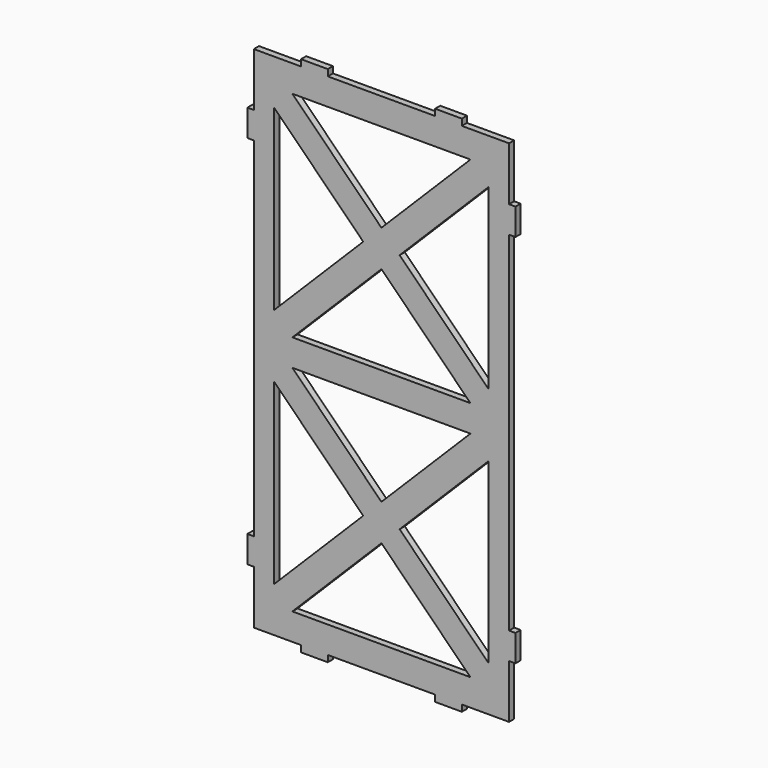
from build123d import *

# Parameters (mm, degrees)
F0_W     = 1.524
F0_H     = 6.35
F0_W_2   = 6.35
F0_H_2   = 1.524
F1_DEPTH = 1.524


with BuildPart() as f1:
    # F0 (on Front) → F1 (new body)
    with BuildSketch(Plane.XZ):
        Polygon((30.226, 19.05), (30.226, 25.4), (25.4, 25.4), (25.4, 21.0894770619), (25.4, -21.0894770619), (25.4, -25.4), (21.0894770619, -25.4), (-21.0894770619, -25.4), (-25.4, -25.4), (-25.4, -21.0894770619), (-25.4, 21.0894770619), (-25.4, 25.4), (-30.226, 25.4), (-30.226, 19.05), (-30.226, 12.7), (-30.226, -12.7), (-30.226, -19.05), (-30.226, -31.75), (-19.05, -31.75), (-12.7, -31.75), (12.7, -31.75), (19.05, -31.75), (30.226, -31.75), (30.226, -19.05), (30.226, -12.7), (30.226, 12.7), align=None)
        with Locations((-30.988, -15.875)):
            Rectangle(F0_W, F0_H)
        with Locations((-15.875, -32.512)):
            Rectangle(F0_W_2, F0_H_2)
        with Locations((15.875, -32.512)):
            Rectangle(F0_W_2, F0_H_2)
        Polygon((25.4, -25.4), (25.4, -21.0894770619), (4.3105229381, 0), (0, -4.3105229381), (21.0894770619, -25.4), align=None)
        Polygon((4.3105229381, 0), (0, 4.3105229381), (-4.3105229381, 0), (0, -4.3105229381), align=None)
        Polygon((25.4, 21.0894770619), (25.4, 25.4), (21.0894770619, 25.4), (0, 4.3105229381), (4.3105229381, 0), align=None)
        Polygon((-4.3105229381, 0), (0, 4.3105229381), (-21.0894770619, 25.4), (-25.4, 25.4), (-25.4, 21.0894770619), align=None)
        Polygon((0, -4.3105229381), (-4.3105229381, 0), (-25.4, -21.0894770619), (-25.4, -25.4), (-21.0894770619, -25.4), align=None)
        Polygon((-19.05, 31.75), (-21.0894770619, 31.75), (-25.4, 31.75), (-30.226, 31.75), (-30.226, 25.4), (-25.4, 25.4), (-21.0894770619, 25.4), (-19.05, 25.4), (-19.05, 26.924), (-12.7, 26.924), (-12.7, 25.4), (0, 25.4), (0, 31.75), (-12.7, 31.75), (-12.7, 30.226), (-19.05, 30.226), align=None)
        with Locations((-15.875, 26.162)):
            Rectangle(F0_W_2, F0_H_2)
        Polygon((30.226, 25.4), (30.226, 31.75), (25.4, 31.75), (21.0894770619, 31.75), (19.05, 31.75), (19.05, 30.226), (12.7, 30.226), (12.7, 31.75), (0, 31.75), (0, 25.4), (12.7, 25.4), (12.7, 26.924), (19.05, 26.924), (19.05, 25.4), (21.0894770619, 25.4), (25.4, 25.4), align=None)
        with Locations((15.875, 26.162)):
            Rectangle(F0_W_2, F0_H_2)
        with Locations((15.875, 30.988)):
            Rectangle(F0_W_2, F0_H_2)
        Polygon((25.4, 31.75), (30.226, 31.75), (30.226, 38.1), (30.226, 44.45), (30.226, 69.85), (30.226, 76.2), (30.226, 88.9), (19.05, 88.9), (12.7, 88.9), (-12.7, 88.9), (-19.05, 88.9), (-30.226, 88.9), (-30.226, 76.2), (-30.226, 69.85), (-30.226, 44.45), (-30.226, 38.1), (-30.226, 31.75), (-25.4, 31.75), (-25.4, 36.0605229381), (-25.4, 78.2394770619), (-25.4, 82.55), (-21.0894770619, 82.55), (21.0894770619, 82.55), (25.4, 82.55), (25.4, 78.2394770619), (25.4, 36.0605229381), align=None)
        Polygon((-21.0894770619, 31.75), (0, 52.8394770619), (-4.3105229381, 57.15), (-25.4, 36.0605229381), (-25.4, 31.75), align=None)
        Polygon((-4.3105229381, 57.15), (0, 52.8394770619), (4.3105229381, 57.15), (0, 61.4605229381), align=None)
        Polygon((0, 61.4605229381), (4.3105229381, 57.15), (25.4, 78.2394770619), (25.4, 82.55), (21.0894770619, 82.55), align=None)
        Polygon((21.0894770619, 31.75), (25.4, 31.75), (25.4, 36.0605229381), (4.3105229381, 57.15), (0, 52.8394770619), align=None)
        Polygon((-25.4, 78.2394770619), (-4.3105229381, 57.15), (0, 61.4605229381), (-21.0894770619, 82.55), (-25.4, 82.55), align=None)
        with Locations((15.875, 89.662)):
            Rectangle(F0_W_2, F0_H_2)
        with Locations((-15.875, 89.662)):
            Rectangle(F0_W_2, F0_H_2)
        with Locations((-30.988, 73.025)):
            Rectangle(F0_W, F0_H)
        with Locations((30.988, 73.025)):
            Rectangle(F0_W, F0_H)
        with Locations((30.988, -15.875)):
            Rectangle(F0_W, F0_H)
        with Locations((-15.875, 30.988)):
            Rectangle(F0_W_2, F0_H_2)
    extrude(amount=F1_DEPTH)


solid = f1.part
